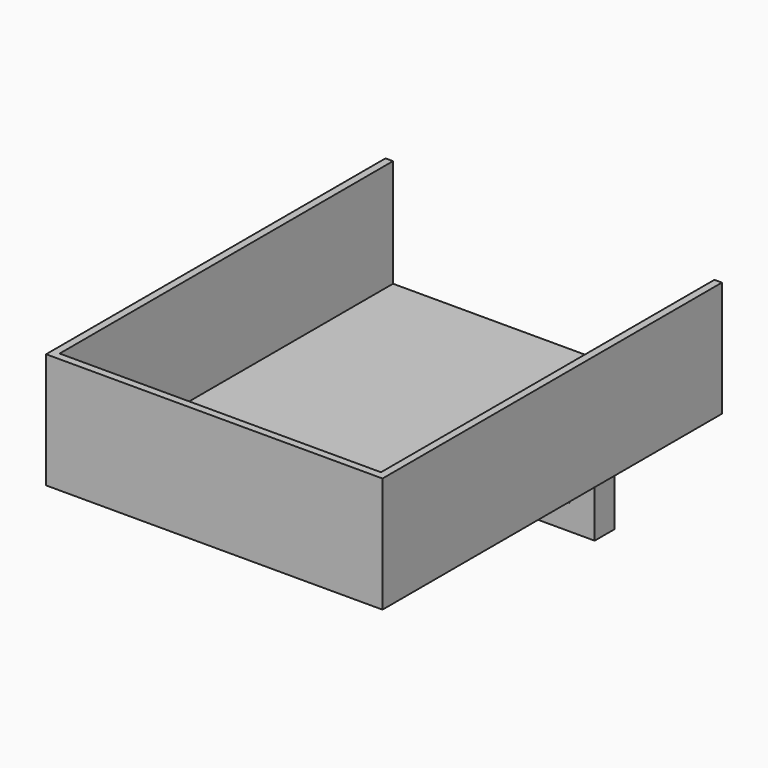
from build123d import *

# Parameters (mm, degrees)
F0_W      = 64
F0_H      = 1.5
F1_DEPTH  = 23
F0_H_2    = 83
F2_DEPTH  = 1.5
F5_W      = 10
F5_H      = 1.5
F6_DEPTH  = 4.5
F7_W      = 10
F7_H      = 4.5
F9_DEPTH  = 5
F11_DEPTH = 50
F12_DEPTH = 10
F13_W     = 5
F13_H     = 5
F14_DEPTH = 53.5
F15_W     = 13.5
F15_H     = 5
F16_DEPTH = 25


with BuildPart() as f1:
    # F0 (on Top) → F1 (new body)
    with BuildSketch(Plane.XY):
        Polygon((-32, 48.42079), (-33.5, 48.42079), (-33.5, -36.07921), (-32, -36.07921), (-32, -34.57921), align=None)
        with Locations((0, -35.32921)):
            Rectangle(F0_W, F0_H)
        Polygon((33.5, 48.42079), (32, 48.42079), (32, -34.57921), (32, -36.07921), (33.5, -36.07921), align=None)
    extrude(amount=F1_DEPTH)

    # F0 (on Top) → F2 (join)
    with BuildSketch(Plane.XY):
        Polygon((-32, 48.42079), (-33.5, 48.42079), (-33.5, -36.07921), (-32, -36.07921), (-32, -34.57921), align=None)
        with Locations((0, 6.92079)):
            Rectangle(F0_W, F0_H_2)
        Polygon((33.5, 48.42079), (32, 48.42079), (32, -34.57921), (32, -36.07921), (33.5, -36.07921), align=None)
        with Locations((0, -35.32921)):
            Rectangle(F0_W, F0_H)
    extrude(amount=F2_DEPTH)


with BuildPart() as f3_1:
    # F3: copy of F1
    add(f1.part)

    # F5 (on face) → F6 (join)
    with BuildSketch(Plane(origin=(0, 0, 0), x_dir=(1, 0, 0), z_dir=(0, 0, -1))):
        with Locations((16.75, -27.67079)):
            Rectangle(F5_W, F5_H)
        with Locations((-16.75, -27.67079)):
            Rectangle(F5_W, F5_H)
    extrude(amount=F6_DEPTH)

    # F7 (on face) → F9 (join)
    with BuildSketch(Plane(origin=(0, 28.42079, 0), x_dir=(-1, 0, 0), z_dir=(0, 1, 0))):
        with Locations((-16.75, -2.25)):
            Rectangle(F7_W, F7_H)
        with Locations((16.75, -2.25)):
            Rectangle(F7_W, F7_H)
    extrude(amount=F9_DEPTH)

    # F10 (on face) → F11 (cut)
    with BuildSketch(Plane.YZ.offset(21.75)):
        Polygon((33.42079, -4.5), (33.42079, 0), (26.92079, -4.5), align=None)
    extrude(amount=-F11_DEPTH, mode=Mode.SUBTRACT)

    # F8 (on face) → F12 (join)
    with BuildSketch(Plane(origin=(0, 0, 0), x_dir=(1, 0, 0), z_dir=(0, 0, -1))):
        Polygon((-21.75, -26.92079), (-21.75, -25.17079), (-26.75, -25.17079), (-26.75, -30.17079), (-21.75, -30.17079), (-21.75, -28.42079), align=None)
        Polygon((-11.75, -25.17079), (-11.75, -26.92079), (-11.75, -28.42079), (-11.75, -30.17079), (-6.75, -30.17079), (-6.75, -25.17079), align=None)
        Polygon((11.75, -25.17079), (6.75, -25.17079), (6.75, -30.17079), (11.75, -30.17079), (11.75, -28.42079), (11.75, -26.92079), align=None)
        Polygon((21.75, -25.17079), (21.75, -26.92079), (21.75, -28.42079), (21.75, -30.17079), (26.75, -30.17079), (26.75, -25.17079), align=None)
    extrude(amount=F12_DEPTH)

    # F13 (on face) → F14 (join)
    with BuildSketch(Plane.YZ.offset(26.75)):
        with Locations((27.67079, -12.5)):
            Rectangle(F13_W, F13_H)
    extrude(amount=-F14_DEPTH)

    # F15 (on face) → F16 (cut)
    with BuildSketch(Plane(origin=(0, 30.17079, 0), x_dir=(-1, 0, 0), z_dir=(0, 1, 0))):
        with Locations((0, -12.5)):
            Rectangle(F15_W, F15_H)
    extrude(amount=-F16_DEPTH, mode=Mode.SUBTRACT)


solid = f3_1.part
